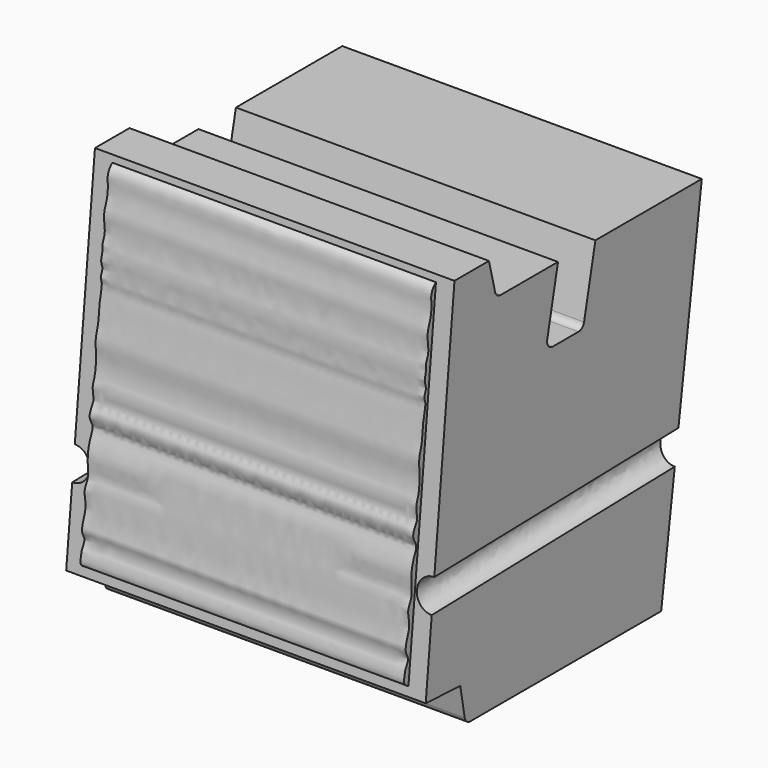
from build123d import *

# Parameters (mm, degrees)
F1_DEPTH  = 100
F2_R      = 2
F11_DEPTH = 90


with BuildPart() as f1:
    # F0 (on Right) → F1 (new body)
    with BuildSketch(Plane.YZ):
        Polygon((-1.8808243613, 10.1062467694), (0, 0), (68, 0), (82.1191756387, 100.1062467694), (45.1191756387, 100.1062467694), (40.842129928, 80.1062467694), (27.842129928, 80.1062467694), (32.1191756387, 100.1062467694), (10.6257721782, 100.1062467694), (8.1191756387, 110.1062467694), (-3.8808243613, 110.1062467694), (-13.8808243613, 10.7048012534), align=None)
    extrude(amount=F1_DEPTH)

    # F2
    f2_edges = [f1.edges().sort_by_distance(p)[0] for p in [
        (50, 10.625772, 100.106247),
        (50, 27.84213, 80.106247),
        (50, 40.84213, 80.106247),
        (50, 0, 0),
    ]]
    fillet(f2_edges, radius=F2_R)

    # F7: F5 across plane


with BuildPart() as f5:
    # F5: sweep along a path in F3
    with BuildLine(Plane.YZ.offset(100)) as f5_path:
        Line((-11.3428942395, 35.9321935264), (89.6662888766, 38.3427343632))
    # F4 (on face) → F5 (sweep)
    with BuildSketch(Plane(origin=(0, -14.8078829384, 1.4897049899), x_dir=(1, 0, 0), z_dir=(0, -0.9949776931, 0.1000969038))):
        with BuildLine():
            Line((100, 30.1163424306), (100, 34.6163424306))
            Line((100, 34.6163424306), (100, 39.1163424306))
            ThreePointArc((100, 39.1163424306), (95.5, 34.6163424306), (100, 30.1163424306))
        make_face()
    sweep(path=f5_path.line)


with BuildPart() as f1_1:
    add(f1.part)
    add(f5.part.mirror(Plane(origin=(50, 32.6792061975, 50.8936948359), x_dir=(0, 1, 0), z_dir=(-1, 0, 0))), mode=Mode.SUBTRACT)

    # F8: cut F5
    add(f5.part, mode=Mode.SUBTRACT)

    # F10 (on offset) → F11 (join)
    with BuildSketch(Plane.YZ.offset(95)):
        with BuildLine():
            Line((-10.8924581723, 40.4095931455), (-4.0704451453, 108.2213887669))
            add(Edge.make_bspline(
                [(-4.0704451453, 108.2213887669), (-5.2818750987, 107.2652325923), (-5.8062226875, 105.5557023979), (-5.658021607, 104.2903504465), (-5.5834659955, 100.7172156397), (-6.7699177117, 98.254071368), (-7.1558295463, 95.6356202608), (-6.3166292081, 92.0143031231), (-7.8306933622, 89.5396988158), (-7.3252736764, 87.8793605238), (-8.3604343376, 85.5755017553), (-7.1049285811, 83.6049578304), (-8.4935079911, 81.7393134187), (-7.3477812132, 80.1725871686), (-8.7233950038, 76.0306096961), (-8.7705557834, 70.8095994077), (-9.9023105275, 68.236379614), (-9.9619352212, 65.2852635456), (-9.5367496656, 63.4152571815), (-10.0559760456, 58.0593808128), (-11.2170759932, 56.3241743932), (-10.5007244312, 53.1310801328), (-10.8010516507, 52.1068044028), (-12.76595245, 49.0200741426), (-10.3956962967, 46.6561944579), (-11.6157032129, 44.3204280643), (-12.6232007158, 41.2855192815), (-12.7155192329, 37.6896680406), (-12.3240120389, 34.2159943916), (-14.0174805543, 32.1622311957), (-13.4617073995, 29.5054383825), (-13.2686685319, 27.1262388048), (-14.2253981122, 24.8434715764), (-14.9813315476, 21.759428345), (-13.2054762946, 19.9035363997), (-14.840411162, 17.7279465808), (-14.8303141567, 16.6638532036), (-15.6004805739, 14.2904216029), (-14.2660826735, 13.5655737252), (-13.6316515739, 13.1816147791)],
                knots=[0, 0, 0, 0, 0.0298790956, 0.0486591617, 0.0797614677, 0.1078401931, 0.1348767888, 0.1669529447, 0.1943591686, 0.2156662325, 0.2412468, 0.2654697964, 0.2885853345, 0.3095808828, 0.3440845249, 0.3829044138, 0.4111943409, 0.4387456308, 0.4630916204, 0.5011304057, 0.5263168116, 0.5549263228, 0.5731197857, 0.6029084417, 0.6307218007, 0.656172368, 0.6863605943, 0.71862124, 0.7494581432, 0.7755236663, 0.8023791425, 0.8281401763, 0.8547683802, 0.8838004488, 0.9084096344, 0.9336508444, 0.9518443215, 0.9761402593, 1, 1, 1, 1], degree=3))
            Line((-13.6316515739, 13.1816147791), (-11.7933303067, 31.4547939073))
            Line((-11.7933303067, 31.4547939073), (-10.8924581723, 40.4095931455))
        make_face()
    extrude(amount=-F11_DEPTH)


solid = f1_1.part
